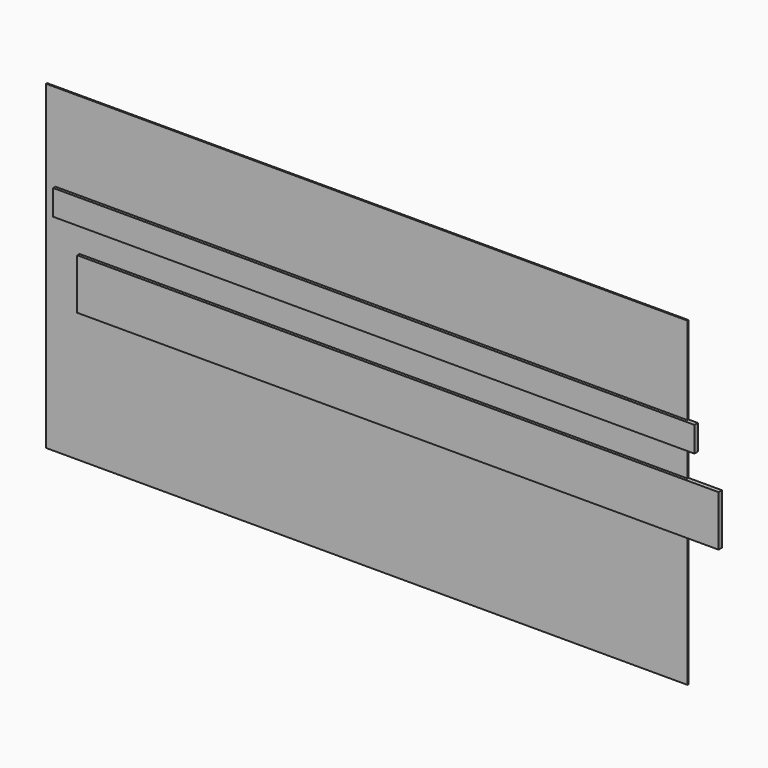
from build123d import *

# Parameters (mm, degrees)
F0_W     = 1930.4
F0_H     = 152.4
F1_DEPTH = 12.7
F2_W     = 1930.4
F2_H     = 76.2
F3_DEPTH = 12.7
F4_W     = 1930.4
F4_H     = 965.2
F5_DEPTH = 4.064


with BuildPart() as f1:
    # F0 (on Front) → F1 (new body)
    with BuildSketch(Plane.XZ):
        with Locations((100.686427, -11.869725)):
            Rectangle(F0_W, F0_H)
    extrude(amount=F1_DEPTH)


with BuildPart() as f3:
    # F2 (on Front) → F3 (new body)
    with BuildSketch(Plane.XZ):
        with Locations((28.048845, 180.93074)):
            Rectangle(F2_W, F2_H)
    extrude(amount=F3_DEPTH)


with BuildPart() as f5:
    # F4 (on Front) → F5 (new body)
    with BuildSketch(Plane.XZ):
        Rectangle(F4_W, F4_H)
    extrude(amount=F5_DEPTH)


solid = Compound([f1.part, f3.part, f5.part])
